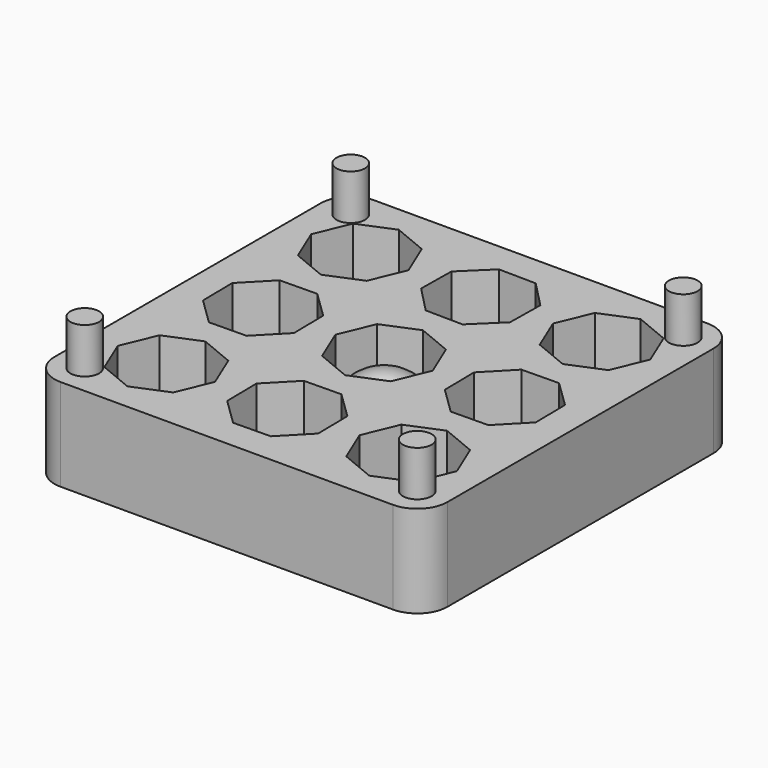
from build123d import *

# Parameters (mm, degrees)
PAD_DEPTH       = 6.1
SKETCH002_R     = 0.95
PAD001_DEPTH    = 3
SKETCH001_R     = 3.05
POCKET_DEPTH    = 1.8
SKETCH003_R     = 2.75
POCKET001_DEPTH = 6.5
POCKET002_DEPTH = 3.5


with BuildPart() as body:
    # Sketch → Pad (new body)
    with BuildSketch(Plane.XY):
        with BuildLine():
            ThreePointArc((-11, 13), (-12.414214, 12.414214), (-13, 11))
            Line((-13, -11), (-13, 11))
            ThreePointArc((-13, -11), (-12.414214, -12.414214), (-11, -13))
            Line((11, -13), (-11, -13))
            ThreePointArc((11, -13), (12.414214, -12.414214), (13, -11))
            Line((13, 11), (13, -11))
            ThreePointArc((13, 11), (12.414214, 12.414214), (11, 13))
            Line((-11, 13), (11, 13))
        make_face()
    extrude(amount=-PAD_DEPTH)

    # Sketch002 → Pad001 (join)
    with BuildSketch(Plane.XY):
        with Locations((-11, 11)):
            Circle(SKETCH002_R)
        with Locations((11, 11)):
            Circle(SKETCH002_R)
        with Locations((11, -11)):
            Circle(SKETCH002_R)
        with Locations((-11, -11)):
            Circle(SKETCH002_R)
    extrude(amount=PAD001_DEPTH)

    # Sketch001 → Pocket (cut)
    with BuildSketch(Plane.XY.offset(-3.4)):
        Circle(SKETCH001_R)
        with Locations((0, 8)):
            Circle(SKETCH001_R)
        with Locations((8, 8)):
            Circle(SKETCH001_R)
        with Locations((8, 0)):
            Circle(SKETCH001_R)
        with Locations((8, -8)):
            Circle(SKETCH001_R)
        with Locations((0, -8)):
            Circle(SKETCH001_R)
        with Locations((-8, -8)):
            Circle(SKETCH001_R)
        with Locations((-8, 0)):
            Circle(SKETCH001_R)
        with Locations((-8, 8)):
            Circle(SKETCH001_R)
    extrude(amount=-POCKET_DEPTH, mode=Mode.SUBTRACT)

    # Sketch003 → Pocket001 (cut)
    with BuildSketch(Plane.XY):
        Circle(SKETCH003_R)
        with Locations((0, 8)):
            Circle(SKETCH003_R)
        with Locations((8, 8)):
            Circle(SKETCH003_R)
        with Locations((8, 0)):
            Circle(SKETCH003_R)
        with Locations((8, -8)):
            Circle(SKETCH003_R)
        with Locations((0, -8)):
            Circle(SKETCH003_R)
        with Locations((-8, -8)):
            Circle(SKETCH003_R)
        with Locations((-8, 0)):
            Circle(SKETCH003_R)
        with Locations((-8, 8)):
            Circle(SKETCH003_R)
    extrude(amount=-POCKET001_DEPTH, mode=Mode.SUBTRACT)

    # Sketch004 → Pocket002 (cut)
    with BuildSketch(Plane.XY):
        Polygon((-3.220117, 0), (-2.276966, -2.276966), (0, -3.220117), (2.276966, -2.276966), (3.220117, 0), (2.276966, 2.276966), (0, 3.220117), (-2.276966, 2.276966), align=None)
        Polygon((-5.007994, -1.1904), (-5.042592, 1.273928), (-6.8096, 2.992006), (-9.273928, 2.957408), (-10.992006, 1.1904), (-10.957408, -1.273928), (-9.1904, -2.992006), (-6.726072, -2.957408), align=None)
        Polygon((1.1904, 5.007994), (2.957408, 6.726072), (2.992006, 9.1904), (1.273928, 10.957408), (-1.1904, 10.992006), (-2.957408, 9.273928), (-2.992006, 6.8096), (-1.273928, 5.042592), align=None)
        Polygon((5.007994, 1.1904), (5.042592, -1.273928), (6.8096, -2.992006), (9.273928, -2.957408), (10.992006, -1.1904), (10.957408, 1.273928), (9.1904, 2.992006), (6.726072, 2.957408), align=None)
        Polygon((1.1904, -5.007994), (-1.273928, -5.042592), (-2.992006, -6.8096), (-2.957408, -9.273928), (-1.1904, -10.992006), (1.273928, -10.957408), (2.992006, -9.1904), (2.957408, -6.726072), align=None)
        Polygon((-8, 4.779883), (-5.723034, 5.723034), (-4.779883, 8), (-5.723034, 10.276966), (-8, 11.220117), (-10.276966, 10.276966), (-11.220117, 8), (-10.276966, 5.723034), align=None)
        Polygon((-8, -4.779883), (-10.276966, -5.723034), (-11.220117, -8), (-10.276966, -10.276966), (-8, -11.220117), (-5.723034, -10.276966), (-4.779883, -8), (-5.723034, -5.723034), align=None)
        Polygon((8, -4.779883), (5.723034, -5.723034), (4.779883, -8), (5.723034, -10.276966), (8, -11.220117), (10.276966, -10.276966), (11.220117, -8), (10.276966, -5.723034), align=None)
        Polygon((8, 4.779883), (10.276966, 5.723034), (11.220117, 8), (10.276966, 10.276966), (8, 11.220117), (5.723034, 10.276966), (4.779883, 8), (5.723034, 5.723034), align=None)
    extrude(amount=-POCKET002_DEPTH, mode=Mode.SUBTRACT)


with BuildPart() as sphere_6_0mm:
    # Sphere → Sphere (revolve)
    with BuildSketch(Plane(origin=(0, 0, -4.1), x_dir=(1, 0, 0), z_dir=(0, -1, 0))):
        with BuildLine():
            ThreePointArc((0, -3), (3, 0), (0, 3))
            Line((0, 3), (0, -3))
        make_face()
    revolve(axis=Axis((0, 0, -4.1), (0, 0, 1)))


solid = Compound([body.part, sphere_6_0mm.part])
